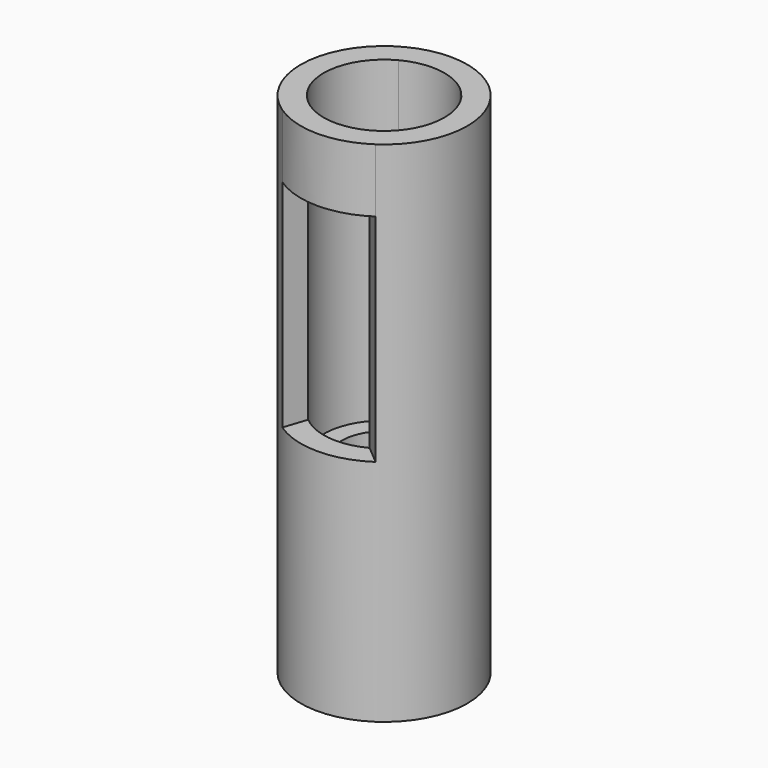
from build123d import *

# Parameters (mm, degrees)
F0_R      = 13.1
F1_DEPTH  = 80
F2_R      = 9.5
F3_DEPTH  = 50
F4_R      = 6.6526235809
F5_DEPTH  = 25
F7_DEPTH  = 25
F8_R      = 0.75
F9_DEPTH  = 5
F10_W     = 4.01619326
F10_H     = 1.2
F11_DEPTH = 1
F13_DEPTH = 44
F14_DEPTH = 44
F15_DEPTH = 10
F16_DEPTH = 10


with BuildPart() as f1:
    # F0 (on Top) → F1 (new body)
    with BuildSketch(Plane.XY):
        Circle(F0_R)
    extrude(amount=F1_DEPTH)

    # F2 (on face) → F3 (cut)
    with BuildSketch(Plane.XY.offset(80)):
        Circle(F2_R)
    extrude(amount=-F3_DEPTH, mode=Mode.SUBTRACT)

    # F4 (on face) → F5 (cut)
    with BuildSketch(Plane.XY.offset(30)):
        Circle(F4_R)
    extrude(amount=-F5_DEPTH, mode=Mode.SUBTRACT)

    # F6 (on face) → F7 (join)
    with BuildSketch(Plane.XY.offset(5)):
        with BuildLine():
            ThreePointArc((2.00809663, 6.3423141229), (0, 6.6526235809), (-2.00809663, 6.3423141229))
            Line((-2.00809663, 6.3423141229), (-2.00809663, -6.3423141229))
            ThreePointArc((-2.00809663, -6.3423141229), (0, -6.6526235809), (2.00809663, -6.3423141229))
            Line((2.00809663, -6.3423141229), (2.00809663, 6.3423141229))
        make_face()
    extrude(amount=F7_DEPTH)

    # F8 (on face) → F9 (cut)
    with BuildSketch(Plane.XY.offset(5)):
        with Locations((-3.75, 0)):
            Circle(F8_R)
        with Locations((3.75, 0)):
            Circle(F8_R)
    extrude(amount=-F9_DEPTH, mode=Mode.SUBTRACT)

    # F10 (on face) → F11 (cut)
    with BuildSketch(Plane.XY.offset(30)):
        Rectangle(F10_W, F10_H)
    extrude(amount=-F11_DEPTH, mode=Mode.SUBTRACT)

    # F12 (on face) → F13 (cut)
    with BuildSketch(Plane.XY.offset(80)):
        with BuildLine():
            Line((-7.3388648552, 10.8513161708), (-4.4335485277, 8.4020025859))
            ThreePointArc((-4.4335485277, 8.4020025859), (1.034452264, 9.4435114504), (6.1473147231, 7.2429635989))
            Line((6.1473147231, 7.2429635989), (7.3388648552, 10.8513161708))
            ThreePointArc((7.3388648552, 10.8513161708), (0, 13.1), (-7.3388648552, 10.8513161708))
        make_face()
    extrude(amount=-F13_DEPTH, mode=Mode.SUBTRACT)

    # F12 (on face) → F14 (cut)
    with BuildSketch(Plane.XY.offset(80)):
        with BuildLine():
            ThreePointArc((4.4335485277, -8.4020025859), (-1.034452264, -9.4435114504), (-6.1473147231, -7.2429635989))
            Line((-6.1473147231, -7.2429635989), (-7.3388648552, -10.8513161708))
            ThreePointArc((-7.3388648552, -10.8513161708), (0, -13.1), (7.3388648552, -10.8513161708))
            Line((7.3388648552, -10.8513161708), (4.4335485277, -8.4020025859))
        make_face()
    extrude(amount=-F14_DEPTH, mode=Mode.SUBTRACT)

    # F12 (on face) → F15 (join)
    with BuildSketch(Plane.XY.offset(80)):
        with BuildLine():
            ThreePointArc((4.4335485277, -8.4020025859), (-1.034452264, -9.4435114504), (-6.1473147231, -7.2429635989))
            Line((-6.1473147231, -7.2429635989), (-7.3388648552, -10.8513161708))
            ThreePointArc((-7.3388648552, -10.8513161708), (0, -13.1), (7.3388648552, -10.8513161708))
            Line((7.3388648552, -10.8513161708), (4.4335485277, -8.4020025859))
        make_face()
    extrude(amount=-F15_DEPTH)

    # F12 (on face) → F16 (join)
    with BuildSketch(Plane.XY.offset(80)):
        with BuildLine():
            Line((-7.3388648552, 10.8513161708), (-4.4335485277, 8.4020025859))
            ThreePointArc((-4.4335485277, 8.4020025859), (1.034452264, 9.4435114504), (6.1473147231, 7.2429635989))
            Line((6.1473147231, 7.2429635989), (7.3388648552, 10.8513161708))
            ThreePointArc((7.3388648552, 10.8513161708), (0, 13.1), (-7.3388648552, 10.8513161708))
        make_face()
    extrude(amount=-F16_DEPTH)


solid = f1.part
